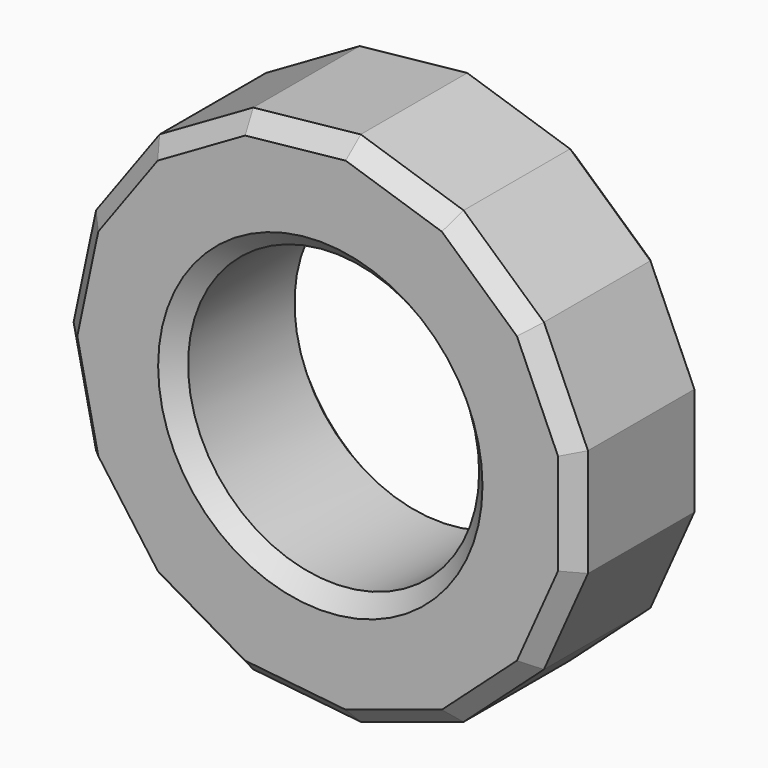
from build123d import *

# Parameters (mm, degrees)
F0_R     = 22.225
F1_DEPTH = 25.4
F2_SIZE  = 2.54


with BuildPart() as f1:
    # F0 (on Front) → F1 (new body)
    with BuildSketch(Plane.XZ):
        Polygon((-36.271735, 16.149217), (-39.704357, 0), (-36.271735, -16.149217), (-26.5674, -29.506087), (-12.269321, -37.761087), (4.150235, -39.486852), (19.852179, -34.384982), (32.1215, -23.337636), (38.836722, -8.255), (38.836722, 8.255), (32.1215, 23.337636), (19.852179, 34.384982), (4.150235, 39.486852), (-12.269321, 37.761087), (-26.5674, 29.506087), align=None)
        Circle(F0_R, mode=Mode.SUBTRACT)
    extrude(amount=F1_DEPTH)

    # F2
    f2_edges = [f1.edges().sort_by_distance(p)[0] for p in [
        (35.479111, -25.4, -15.796318),
        (38.836722, -25.4, 0),
        (35.479111, -25.4, 15.796318),
        (25.986839, -25.4, 28.861309),
        (12.001207, -25.4, 36.935917),
        (-4.059543, -25.4, 38.62397),
        (-19.418361, -25.4, 33.633587),
        (-31.419568, -25.4, 22.827652),
        (-37.988046, -25.4, 8.074608),
        (-37.988046, -25.4, -8.074608),
        (-31.419568, -25.4, -22.827652),
        (-19.418361, -25.4, -33.633587),
        (-4.059543, -25.4, -38.62397),
        (12.001207, -25.4, -36.935917),
        (25.986839, -25.4, -28.861309),
        (-22.225, -25.4, 0),
        (35.479111, 0, -15.796318),
        (38.836722, 0, 0),
        (35.479111, 0, 15.796318),
        (25.986839, 0, 28.861309),
        (12.001207, 0, 36.935917),
        (-4.059543, 0, 38.62397),
        (-19.418361, 0, 33.633587),
        (-31.419568, 0, 22.827652),
        (-37.988046, 0, 8.074608),
        (-37.988046, 0, -8.074608),
        (-31.419568, 0, -22.827652),
        (-19.418361, 0, -33.633587),
        (-4.059543, 0, -38.62397),
        (12.001207, 0, -36.935917),
        (25.986839, 0, -28.861309),
        (-22.225, 0, 0),
    ]]
    chamfer(f2_edges, length=F2_SIZE)


solid = f1.part
